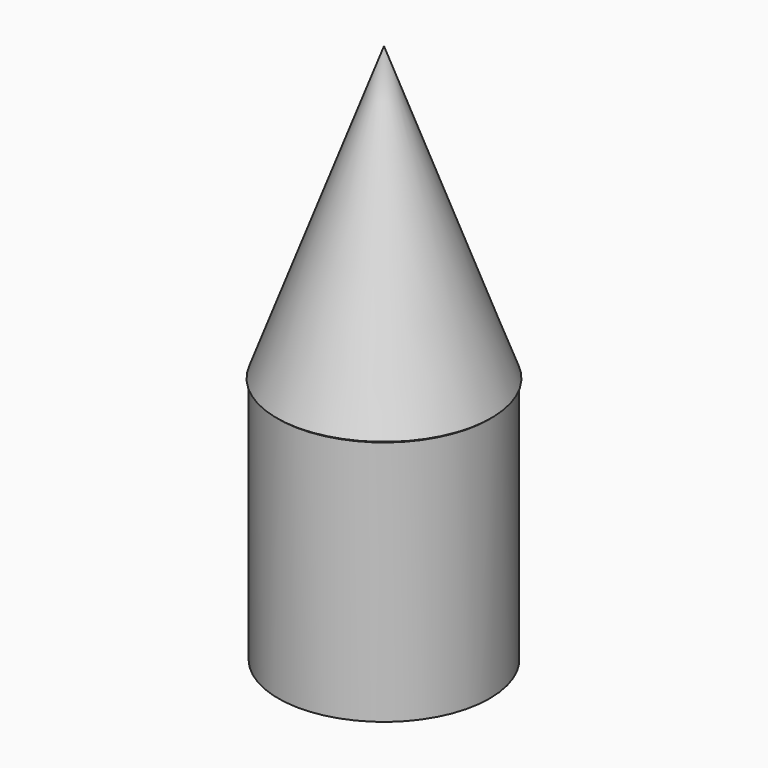
from build123d import *

# Parameters (mm, degrees)
F0_R     = 10.75
F0_R_2   = 7.240697
F1_DEPTH = 25


with BuildPart() as f1:
    # F0 (on Top) → F1 (new body)
    with BuildSketch(Plane.XY):
        Circle(F0_R)
        Circle(F0_R_2, mode=Mode.SUBTRACT)
    extrude(amount=F1_DEPTH)


with BuildPart() as f4:
    # F2 (on Right) → F4 (revolve)
    with BuildSketch(Plane.YZ):
        Polygon((-10.911145, 25.14307), (0, 25.459336), (0, 54.871988), align=None)
    revolve(axis=Axis((0, 0, 11.622741), (0, 0, 1)))


solid = Compound([f1.part, f4.part])
